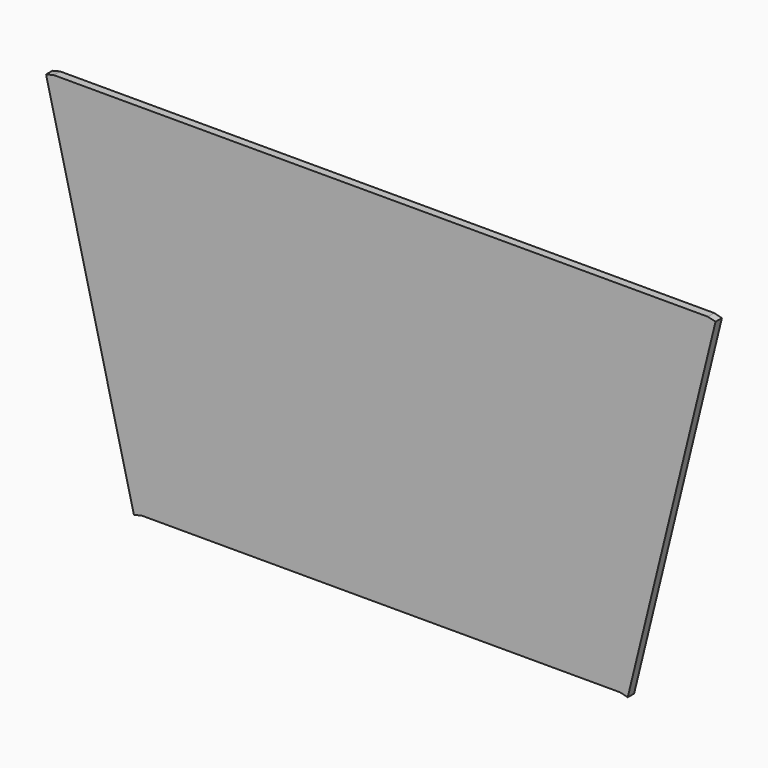
from build123d import *

# Parameters (mm, degrees)
F0_W     = 540
F0_H     = 390
F1_DEPTH = 10
F2_W     = 80
F2_H     = 80
F2_R     = 15
F3_DEPTH = 10
F4_R     = 15
F5_DEPTH = 10
F6_DEPTH = 10
F7_DEPTH = 10


with BuildPart() as f1:
    # F0 (on Front) → F1 (new body)
    with BuildSketch(Plane.XZ):
        Polygon((-575.5810141563, 243.9473703504), (-465.5810141563, -206.0526296496), (133.660423523, -206.0526296496), (243.660423523, 243.9473703504), (133.660423523, 243.9473703504), (-465.5810141563, 243.9473703504), align=None)
        with Locations((-166.339576477, 18.9473703504)):
            Rectangle(F0_W, F0_H, mode=Mode.SUBTRACT)
        Polygon((-495.5810141563, 43.0153865893), (-537.3643879646, 213.9473703504), (-495.5810141563, 213.9473703504), align=None, mode=Mode.SUBTRACT)
        Polygon((163.660423523, 213.9473703504), (205.4437973313, 213.9473703504), (163.660423523, 43.0153865893), align=None, mode=Mode.SUBTRACT)
    extrude(amount=F1_DEPTH)

    # F2 (on face) → F3 (join)
    with BuildSketch(Plane.XZ.offset(10)):
        with Locations((-396.339576477, 173.9473703504)):
            Rectangle(F2_W, F2_H)
        with Locations((-396.339576477, 198.8157841563)):
            Circle(F2_R, mode=Mode.SUBTRACT)
        with Locations((63.660423523, 173.9473703504)):
            Rectangle(F2_W, F2_H)
        with Locations((63.660423523, 198.8157841563)):
            Circle(F2_R, mode=Mode.SUBTRACT)
        with Locations((63.660423523, -136.0526296496)):
            Rectangle(F2_W, F2_H)
        with Locations((63.660423523, -136.0526296496)):
            Circle(F2_R, mode=Mode.SUBTRACT)
        with Locations((-396.339576477, -136.0526296496)):
            Rectangle(F2_W, F2_H)
        with Locations((-396.339576477, -136.0526296496)):
            Circle(F2_R, mode=Mode.SUBTRACT)
    extrude(amount=-F3_DEPTH)

    # F4 (on face) → F5 (join)
    with BuildSketch(Plane.XZ.offset(10)):
        Polygon((243.660423523, 243.9473703504), (-575.5810141563, 243.9473703504), (-465.5810141563, -206.0526296496), (133.660423523, -206.0526296496), align=None)
        with Locations((-396.339576477, -136.0526296496)):
            Circle(F4_R, mode=Mode.SUBTRACT)
        Polygon((23.660423523, -96.0526296496), (23.660423523, -176.0526296496), (-356.339576477, -176.0526296496), (-356.339576477, -96.0526296496), (-436.339576477, -96.0526296496), (-436.339576477, 133.9473703504), (-356.339576477, 133.9473703504), (-356.339576477, 213.9473703504), (23.660423523, 213.9473703504), (23.660423523, 133.9473703504), (103.660423523, 133.9473703504), (103.660423523, -96.0526296496), align=None, mode=Mode.SUBTRACT)
        with Locations((63.660423523, -136.0526296496)):
            Circle(F4_R, mode=Mode.SUBTRACT)
        Polygon((-495.5810141563, 213.9473703504), (-495.5810141563, 43.0153865893), (-537.3643879646, 213.9473703504), align=None, mode=Mode.SUBTRACT)
        with Locations((-396.339576477, 198.8157841563)):
            Circle(F4_R, mode=Mode.SUBTRACT)
        Polygon((163.660423523, 43.0153865893), (163.660423523, 213.9473703504), (205.4437973313, 213.9473703504), align=None, mode=Mode.SUBTRACT)
        with Locations((63.660423523, 198.8157841563)):
            Circle(F4_R, mode=Mode.SUBTRACT)
        Polygon((-356.339576477, -176.0526296496), (23.660423523, -176.0526296496), (23.660423523, -96.0526296496), (103.660423523, -96.0526296496), (103.660423523, 133.9473703504), (23.660423523, 133.9473703504), (23.660423523, 213.9473703504), (-356.339576477, 213.9473703504), (-356.339576477, 133.9473703504), (-436.339576477, 133.9473703504), (-436.339576477, -96.0526296496), (-356.339576477, -96.0526296496), align=None)
        Polygon((-537.3643879646, 213.9473703504), (-495.5810141563, 43.0153865893), (-495.5810141563, 213.9473703504), align=None)
        Polygon((205.4437973313, 213.9473703504), (163.660423523, 213.9473703504), (163.660423523, 43.0153865893), align=None)
        with Locations((63.660423523, 198.8157841563)):
            Circle(F4_R)
        with Locations((-396.339576477, 198.8157841563)):
            Circle(F4_R)
        with Locations((-396.339576477, -136.0526296496)):
            Circle(F4_R)
        with Locations((63.660423523, -136.0526296496)):
            Circle(F4_R)
    extrude(amount=-F5_DEPTH)

    # F6 (add): a face of the model
    f6_faces = [f1.faces().sort_by_distance(p)[0] for p in [
        (-520.5810141563, -5, 18.9473703504),
    ]]
    extrude(f6_faces, amount=F6_DEPTH)

    # F7 (add): a face of the model
    f7_faces = [f1.faces().sort_by_distance(p)[0] for p in [
        (188.660423523, -5, 18.9473703504),
    ]]
    extrude(f7_faces, amount=F7_DEPTH)


solid = f1.part
